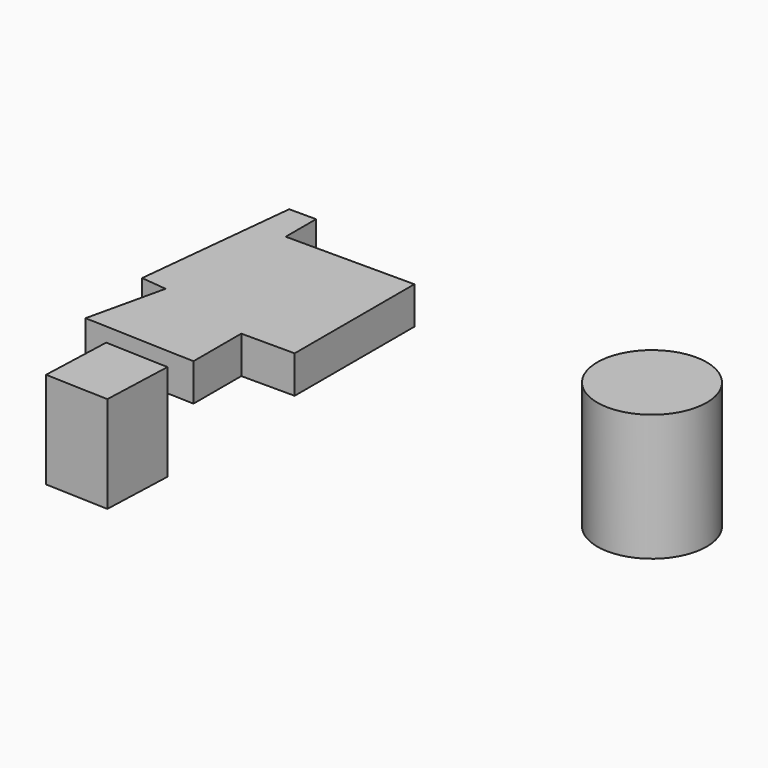
from build123d import *

# Parameters (mm, degrees)
F1_DEPTH = 25.4
F2_R     = 37.148431
F3_DEPTH = 86.106
F4_W     = 42.930085
F4_H     = 15.727499
F4_H_2   = 49.884431
F5_DEPTH = 48.768


with BuildPart() as f1:
    # F0 (on Top) → F1 (new body)
    with BuildSketch(Plane.XY):
        Polygon((-108.899033, 84.103147), (-120.42734, -26.363099), (-102.997601, -28.182074), (-115.062147, -81.058979), (-39.496277, -83.912991), (-39.496277, -43.310989), (-3.251022, -43.310989), (-3.251022, 58.310269), (-90.625504, 58.310269), (-90.625504, 84.103147), align=None)
    extrude(amount=F1_DEPTH)

    # F4 (on face) → F5 (join)
    with BuildSketch(Plane(origin=(-3.221016, -85.283054, 0), x_dir=(0.999288, -0.037742, 0), z_dir=(-0.037742, -0.999288, 0))):
        with Locations((-75.972838, 7.863749)):
            Rectangle(F4_W, F4_H)
        with Locations((-75.972838, -24.942215)):
            Rectangle(F4_W, F4_H_2)
    extrude(amount=F5_DEPTH)


with BuildPart() as f3:
    # F2 (on Top) → F3 (new body)
    with BuildSketch(Plane.XY):
        with Locations((74.644133, 18.866591)):
            Circle(F2_R)
    extrude(amount=F3_DEPTH)


with BuildPart() as f1_1:
    # F6: moved
    add(f1.part.moved(Location((-77.216, -47.244, 72.136))))


solid = Compound([f3.part, f1_1.part])
